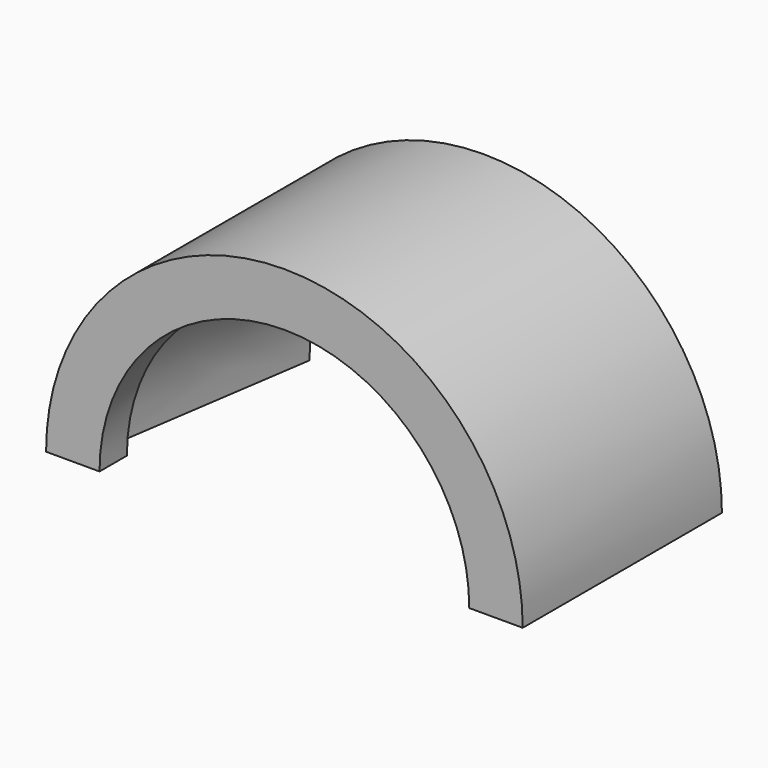
from build123d import *

# Parameters (mm, degrees)
REVOLUTION_ANGLE = -180


with BuildPart() as part:
    # Sketch → Revolution (revolve)
    with BuildSketch(Plane.XY):
        Polygon((17.3, 0), (17.3, 3.2), (19.3, 3.2), (16.3, 23.3), (22.3, 23.3), (22.3, 0), align=None)
    revolve(axis=Axis((0, 0, 0), (0, 1, 0)), revolution_arc=REVOLUTION_ANGLE)


solid = part.part
